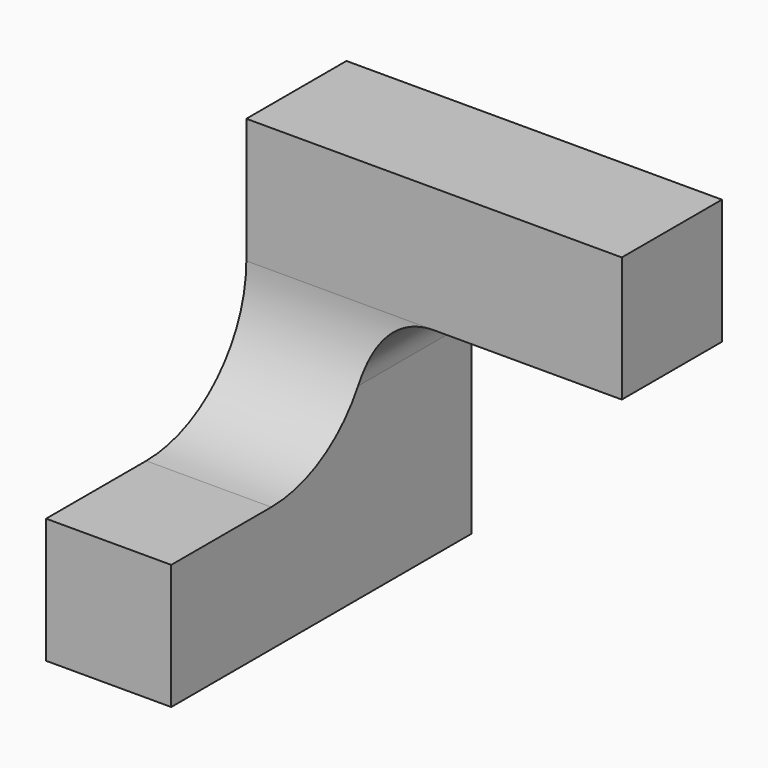
from build123d import *

# Parameters (mm, degrees)
F1_DEPTH = 76.2
F3_DEPTH = 76.201


with BuildPart() as f1:
    # F0 (on Front) → F1 (new body)
    with BuildSketch(Plane.XZ):
        with BuildLine():
            Line((0, 76.2), (0, 0))
            Line((0, 0), (25.4, 0))
            Line((25.4, 0), (25.4, 38.1))
            ThreePointArc((25.4, 38.1), (29.119744, 47.080256), (38.1, 50.8))
            Line((38.1, 50.8), (76.2, 50.8))
            Line((76.2, 50.8), (76.2, 76.2))
            Line((76.2, 76.2), (0, 76.2))
        make_face()
    extrude(amount=F1_DEPTH)

    # F2 (on face) → F3 (cut, through all)
    with BuildSketch(Plane.YZ.offset(76.2)):
        with BuildLine():
            Line((-76.2, 76.2), (-76.2, 25.4))
            Line((-76.2, 25.4), (-50.8, 25.4))
            ThreePointArc((-50.8, 25.4), (-32.839488, 32.839488), (-25.4, 50.8))
            Line((-25.4, 50.8), (-25.4, 76.2))
            Line((-25.4, 76.2), (-76.2, 76.2))
        make_face()
    extrude(amount=-F3_DEPTH, mode=Mode.SUBTRACT)


solid = f1.part
